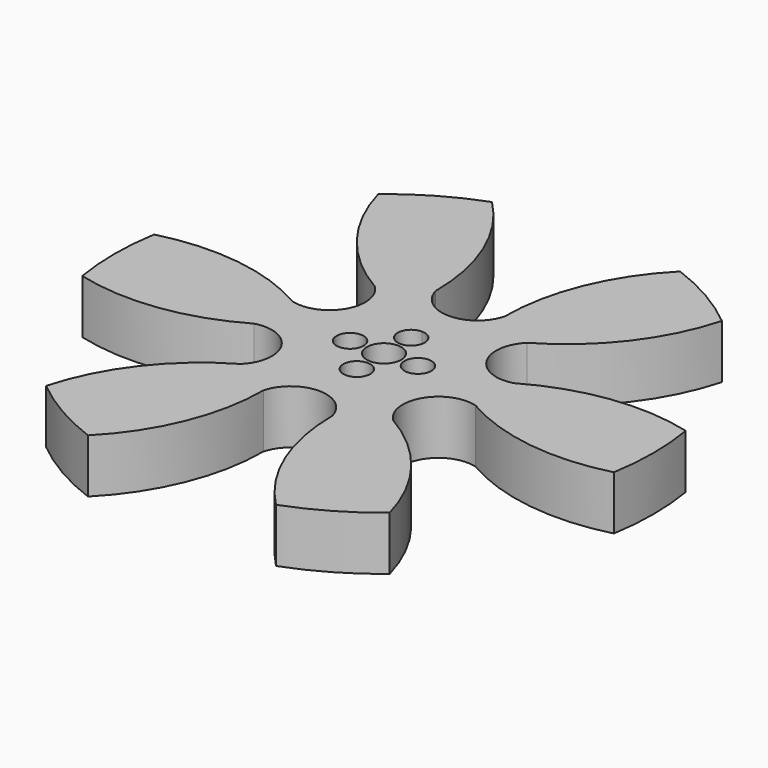
from build123d import *

# Parameters (mm, degrees)
F0_R     = 63.5
F0_R_2   = 25.4
F0_R_3   = 2.032
F0_R_4   = 4.064
F1_DEPTH = 12.7
F2_R     = 3.175
F2_R_2   = 2.032
F3_DEPTH = 9.525
F4_DEPTH = 12.7


with BuildPart() as f1:
    # F0 (on Top) → F1 (new body)
    with BuildSketch(Plane.XY):
        with Locations((-620.6655502319, 147.9596942663)):
            Circle(F0_R)
        with Locations((-620.6655502319, 147.9596942663)):
            Circle(F0_R_2, mode=Mode.SUBTRACT)
        with Locations((-620.6655502319, 147.9596942663)):
            Circle(F0_R_2)
        with Locations((-620.6655502319, 139.9586942663)):
            Circle(F0_R_3, mode=Mode.SUBTRACT)
        with Locations((-628.6665502319, 147.9596942663)):
            Circle(F0_R_3, mode=Mode.SUBTRACT)
        with Locations((-620.6655502319, 147.9596942663)):
            Circle(F0_R_4, mode=Mode.SUBTRACT)
        with Locations((-612.6645502319, 147.9596942663)):
            Circle(F0_R_3, mode=Mode.SUBTRACT)
        with Locations((-620.6655502319, 155.9606942663)):
            Circle(F0_R_3, mode=Mode.SUBTRACT)
    extrude(amount=F1_DEPTH)

    # F2 (on face) → F3 (cut)
    with BuildSketch(Plane.XY.offset(12.7)):
        with Locations((-628.6665502319, 147.9596942663)):
            Circle(F2_R)
        with Locations((-628.6665502319, 147.9596942663)):
            Circle(F2_R_2, mode=Mode.SUBTRACT)
        with BuildLine():
            ThreePointArc((-620.6655502319, 159.1356942663), (-622.9106142622, 153.7156302361), (-617.4905502319, 155.9606942663))
            ThreePointArc((-617.4905502319, 155.9606942663), (-618.4204862017, 158.2057582966), (-620.6655502319, 159.1356942663))
        make_face()
        with BuildLine():
            ThreePointArc((-618.6335502319, 155.9606942663), (-622.1023912113, 154.5238532869), (-620.6655502319, 157.9926942663))
            ThreePointArc((-620.6655502319, 157.9926942663), (-619.2287092526, 157.3975352457), (-618.6335502319, 155.9606942663))
        make_face(mode=Mode.SUBTRACT)
        with Locations((-612.6645502319, 147.9596942663)):
            Circle(F2_R)
        with Locations((-612.6645502319, 147.9596942663)):
            Circle(F2_R_2, mode=Mode.SUBTRACT)
        with Locations((-620.6655502319, 139.9586942663)):
            Circle(F2_R)
        with Locations((-620.6655502319, 139.9586942663)):
            Circle(F2_R_2, mode=Mode.SUBTRACT)
    extrude(amount=-F3_DEPTH, mode=Mode.SUBTRACT)

    # F2 (on face) → F4 (cut)
    with BuildSketch(Plane.XY.offset(12.7)):
        with BuildLine():
            ThreePointArc((-628.7935502319, 173.3596942663), (-625.8046499913, 168.8251534834), (-620.6655502319, 167.0686688056))
            ThreePointArc((-620.6655502319, 167.0686688056), (-615.5264504725, 168.8251534834), (-612.5375502319, 173.3596942663))
            ThreePointArc((-612.5375502319, 173.3596942663), (-608.9080068362, 191.8026056382), (-598.5370363488, 207.4792614129))
            ThreePointArc((-598.5370363488, 207.4792614129), (-620.6796633161, 211.459692698), (-642.8205187681, 207.4694192628))
            ThreePointArc((-642.8205187681, 207.4694192628), (-632.4371990863, 191.8003367826), (-628.7935502319, 173.3596942663))
        make_face()
        with BuildLine():
            ThreePointArc((-638.5985954881, 167.6987487483), (-652.755853558, 180.063481219), (-661.1467504616, 196.8833330105))
            ThreePointArc((-661.1467504616, 196.8833330105), (-675.6652185561, 179.6974711927), (-683.2799681192, 158.5277911922))
            ThreePointArc((-683.2799681192, 158.5277911922), (-664.5184847964, 159.6854685722), (-646.7265954881, 153.6206397844))
            ThreePointArc((-646.7265954881, 153.6206397844), (-637.2144076232, 157.5141815359), (-638.5985954881, 167.6987487483))
        make_face()
        with BuildLine():
            ThreePointArc((-646.7265954881, 142.2987487483), (-664.5133969537, 136.2205698472), (-683.2752643448, 137.3637658638))
            ThreePointArc((-683.2752643448, 137.3637658638), (-675.6511054719, 116.197472761), (-661.1249995831, 99.0180661957))
            ThreePointArc((-661.1249995831, 99.0180661957), (-652.7468359421, 115.8448260559), (-638.5985954881, 128.2206397844))
            ThreePointArc((-638.5985954881, 128.2206397844), (-637.2144076232, 138.4052069967), (-646.7265954881, 142.2987487483))
        make_face()
        with BuildLine():
            ThreePointArc((-628.7935502319, 122.5596942663), (-632.4230936276, 104.1167828944), (-642.7940641151, 88.4401271197))
            ThreePointArc((-642.7940641151, 88.4401271197), (-620.6514371477, 84.4596958347), (-598.5105816958, 88.4499692698))
            ThreePointArc((-598.5105816958, 88.4499692698), (-608.8939013776, 104.11905175), (-612.5375502319, 122.5596942663))
            ThreePointArc((-612.5375502319, 122.5596942663), (-620.6655502319, 128.8507197271), (-628.7935502319, 122.5596942663))
        make_face()
        with BuildLine():
            ThreePointArc((-580.1843500023, 99.0360555222), (-565.6658819077, 116.2219173399), (-558.0511323446, 137.3915973404))
            ThreePointArc((-558.0511323446, 137.3915973404), (-576.8126156674, 136.2339199605), (-594.6045049758, 142.2987487483))
            ThreePointArc((-594.6045049758, 142.2987487483), (-604.1166928407, 138.4052069967), (-602.7325049758, 128.2206397844))
            ThreePointArc((-602.7325049758, 128.2206397844), (-588.5752469059, 115.8559073136), (-580.1843500023, 99.0360555222))
        make_face()
        with BuildLine():
            ThreePointArc((-558.0558361191, 158.5556226688), (-565.6799949919, 179.7219157716), (-580.2061008808, 196.9013223369))
            ThreePointArc((-580.2061008808, 196.9013223369), (-588.5842645218, 180.0745624768), (-602.7325049758, 167.6987487483))
            ThreePointArc((-602.7325049758, 167.6987487483), (-604.1166928407, 157.5141815359), (-594.6045049758, 153.6206397844))
            ThreePointArc((-594.6045049758, 153.6206397844), (-576.8177035102, 159.6988186855), (-558.0558361191, 158.5556226688))
        make_face()
    extrude(amount=-F4_DEPTH, mode=Mode.SUBTRACT)


solid = f1.part
